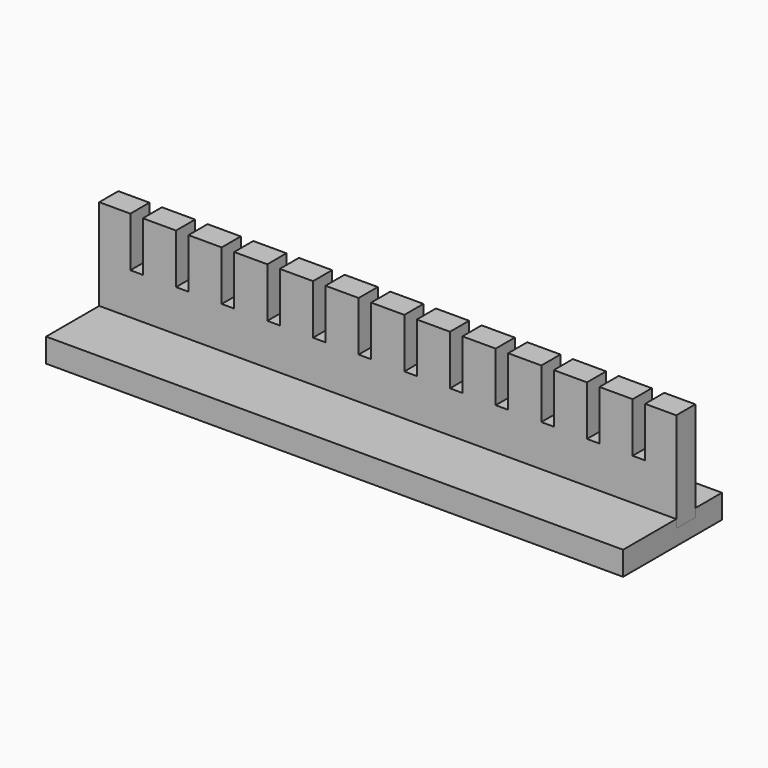
from build123d import *

# Parameters (mm, degrees)
F1_DEPTH = 18.25625
F3_DEPTH = 441.325


with BuildPart() as f1:
    # F0 (on Front) → F1 (new body)
    with BuildSketch(Plane.XZ):
        Polygon((-196.85, 38.1), (-220.6625, 38.1), (-220.6625, -38.1), (220.6625, -38.1), (220.6625, 38.1), (196.85, 38.1), (196.85, 0), (187.325, 0), (187.325, 38.1), (161.925, 38.1), (161.925, 0), (152.4, 0), (152.4, 38.1), (127, 38.1), (127, 0), (117.475, 0), (117.475, 38.1), (92.075, 38.1), (92.075, 0), (82.55, 0), (82.55, 38.1), (57.15, 38.1), (57.15, 0), (47.625, 0), (47.625, 38.1), (22.225, 38.1), (22.225, 0), (12.7, 0), (12.7, 38.1), (-12.7, 38.1), (-12.7, 0), (-22.225, 0), (-22.225, 38.1), (-47.625, 38.1), (-47.625, 0), (-57.15, 0), (-57.15, 38.1), (-82.55, 38.1), (-82.55, 0), (-92.075, 0), (-92.075, 38.1), (-117.475, 38.1), (-117.475, 0), (-127, 0), (-127, 38.1), (-152.4, 38.1), (-152.4, 0), (-161.925, 0), (-161.925, 38.1), (-187.325, 38.1), (-187.325, 0), (-196.85, 0), align=None)
    extrude(amount=F1_DEPTH)


with BuildPart() as f3:
    # F2 (on face) → F3 (new body, through all)
    with BuildSketch(Plane.YZ.offset(220.6625)):
        Polygon((25.4, -31.75), (0, -31.75), (0, -38.1), (-18.25625, -38.1), (-18.25625, -31.75), (-69.05625, -31.75), (-69.05625, -50.00625), (25.4, -50.00625), align=None)
    extrude(amount=-F3_DEPTH)


solid = Compound([f1.part, f3.part])
